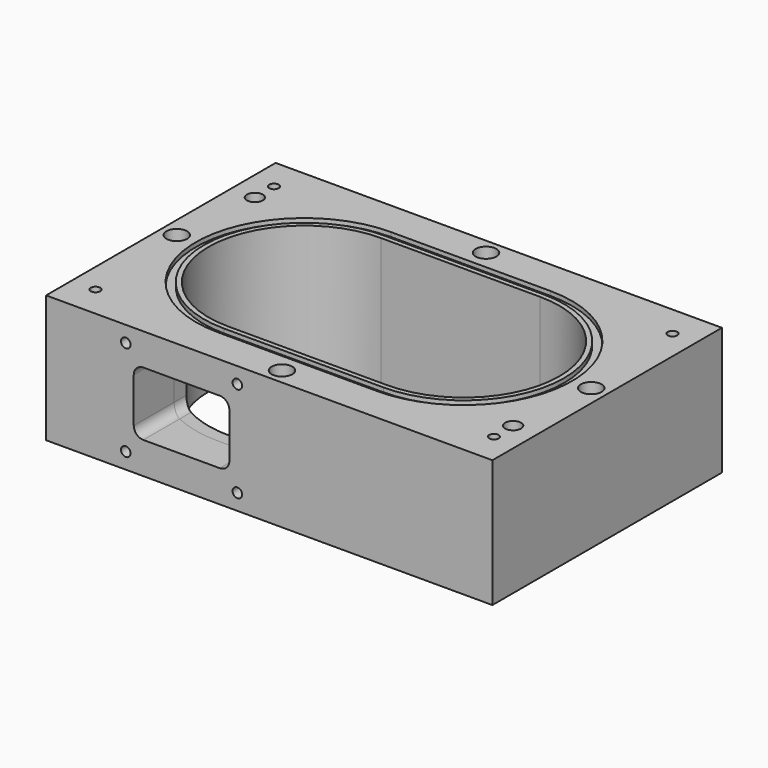
from build123d import *

# Parameters (mm, degrees)
F0_W          = 280
F0_H          = 180
F1_DEPTH      = 40
F1_DEPTH_BACK = 40
F2_DEPTH      = 37.3
F2_DEPTH_BACK = 37.3
F3_DEPTH      = 40
F3_DEPTH_BACK = 40
F4_R          = 5
F5_DEPTH      = 10
F4_R_2        = 4.25
F6_DEPTH      = 80
F4_R_3        = 3
F7_DEPTH      = 15
F4_R_4        = 6.5
F8_DEPTH      = 20
F9_R          = 3
F10_DEPTH     = 12
F11_DEPTH     = 45
F12_R         = 5
F13_DEPTH     = 10


with BuildPart() as f1:
    # F0 (on Top) → F1 (new body, two sides)
    with BuildSketch(Plane.XY) as f1_sk:
        Rectangle(F0_W, F0_H)
        with BuildLine():
            ThreePointArc((-50, -68), (-118, 0), (-50, 68))
            Line((-50, 68), (50, 68))
            ThreePointArc((50, 68), (118, 0), (50, -68))
            Line((50, -68), (-50, -68))
        make_face(mode=Mode.SUBTRACT)
    extrude(amount=F1_DEPTH)
    extrude(f1_sk.sketch, amount=-F1_DEPTH_BACK)

    # F4 (on face) → F5 (cut)
    with BuildSketch(Plane.XY.offset(40)):
        with Locations((-125, 55)):
            Circle(F4_R)
        with Locations((125, -55)):
            Circle(F4_R)
    extrude(amount=-F5_DEPTH, mode=Mode.SUBTRACT)

    # F4 (on face) → F6 (cut)
    with BuildSketch(Plane.XY.offset(40)):
        with Locations((0, 80)):
            Circle(F4_R_2)
        with Locations((130, 0)):
            Circle(F4_R_2)
        with Locations((0, -80)):
            Circle(F4_R_2)
        with Locations((-130, 0)):
            Circle(F4_R_2)
    extrude(amount=-F6_DEPTH, mode=Mode.SUBTRACT)

    # F4 (on face) → F7 (cut)
    with BuildSketch(Plane.XY.offset(40)):
        with Locations((-125, 70)):
            Circle(F4_R_3)
        with Locations((125, 70)):
            Circle(F4_R_3)
        with Locations((125, -70)):
            Circle(F4_R_3)
        with Locations((-125, -70)):
            Circle(F4_R_3)
    extrude(amount=-F7_DEPTH, mode=Mode.SUBTRACT)

    # F4 (on face) → F8 (cut)
    with BuildSketch(Plane.XY.offset(40)):
        with Locations((0, 80)):
            Circle(F4_R_4)
        with Locations((0, 80)):
            Circle(F4_R_2, mode=Mode.SUBTRACT)
        with Locations((130, 0)):
            Circle(F4_R_4)
        with Locations((130, 0)):
            Circle(F4_R_2, mode=Mode.SUBTRACT)
        with Locations((0, -80)):
            Circle(F4_R_4)
        with Locations((0, -80)):
            Circle(F4_R_2, mode=Mode.SUBTRACT)
        with Locations((-130, 0)):
            Circle(F4_R_4)
        with Locations((-130, 0)):
            Circle(F4_R_2, mode=Mode.SUBTRACT)
    extrude(amount=-F8_DEPTH, mode=Mode.SUBTRACT)

    # F9 (on face) → F10 (cut)
    with BuildSketch(Plane.XZ.offset(90)):
        with Locations((-90, 30)):
            Circle(F9_R)
        with Locations((-20, 30)):
            Circle(F9_R)
        with Locations((-20, -30)):
            Circle(F9_R)
        with Locations((-90, -30)):
            Circle(F9_R)
    extrude(amount=-F10_DEPTH, mode=Mode.SUBTRACT)


with BuildPart() as f2:
    # F0 (on Top) → F2 (new body, two sides)
    with BuildSketch(Plane.XY) as f2_sk:
        with BuildLine():
            Line((50, 68), (-50, 68))
            ThreePointArc((-50, 68), (-118, 0), (-50, -68))
            Line((-50, -68), (50, -68))
            ThreePointArc((50, -68), (118, 0), (50, 68))
        make_face()
        with BuildLine():
            ThreePointArc((-50, -63), (-113, 0), (-50, 63))
            Line((-50, 63), (50, 63))
            ThreePointArc((50, 63), (113, 0), (50, -63))
            Line((50, -63), (-50, -63))
        make_face(mode=Mode.SUBTRACT)
    extrude(amount=F2_DEPTH)
    extrude(f2_sk.sketch, amount=-F2_DEPTH_BACK)

    # F0 (on Top) → F3 (join, two sides)
    with BuildSketch(Plane.XY) as f3_sk:
        with BuildLine():
            Line((50, 63), (-50, 63))
            ThreePointArc((-50, 63), (-113, 0), (-50, -63))
            Line((-50, -63), (50, -63))
            ThreePointArc((50, -63), (113, 0), (50, 63))
        make_face()
        with BuildLine():
            ThreePointArc((-50, -60), (-110, 0), (-50, 60))
            Line((-50, 60), (50, 60))
            ThreePointArc((50, 60), (110, 0), (50, -60))
            Line((50, -60), (-50, -60))
        make_face(mode=Mode.SUBTRACT)
    extrude(amount=F3_DEPTH)
    extrude(f3_sk.sketch, amount=-F3_DEPTH_BACK)


with BuildPart() as f11_tool:
    # F9 (on face) → F11 (new body)
    with BuildSketch(Plane.XZ.offset(90)):
        with BuildLine():
            Line((-31, 20), (-79, 20))
            ThreePointArc((-79, 20), (-83.242641, 18.242641), (-85, 14))
            Line((-85, 14), (-85, -14))
            ThreePointArc((-85, -14), (-83.242641, -18.242641), (-79, -20))
            Line((-79, -20), (-31, -20))
            ThreePointArc((-31, -20), (-26.757359, -18.242641), (-25, -14))
            Line((-25, -14), (-25, 14))
            ThreePointArc((-25, 14), (-26.757359, 18.242641), (-31, 20))
        make_face()
    extrude(amount=-F11_DEPTH)


with BuildPart() as f1_1:
    add(f1.part)

    # F11: cut by f11_tool
    add(f11_tool.part, mode=Mode.SUBTRACT)

    # F12 (on face) → F13 (cut)
    with BuildSketch(Plane(origin=(0, 0, -40), x_dir=(1, 0, 0), z_dir=(0, 0, -1))):
        with Locations((-125, 65)):
            Circle(F12_R)
        with Locations((125, -65)):
            Circle(F12_R)
    extrude(amount=-F13_DEPTH, mode=Mode.SUBTRACT)


with BuildPart() as f2_1:
    add(f2.part)

    # F11: cut by f11_tool
    add(f11_tool.part, mode=Mode.SUBTRACT)


solid = Compound([f1_1.part, f2_1.part])
